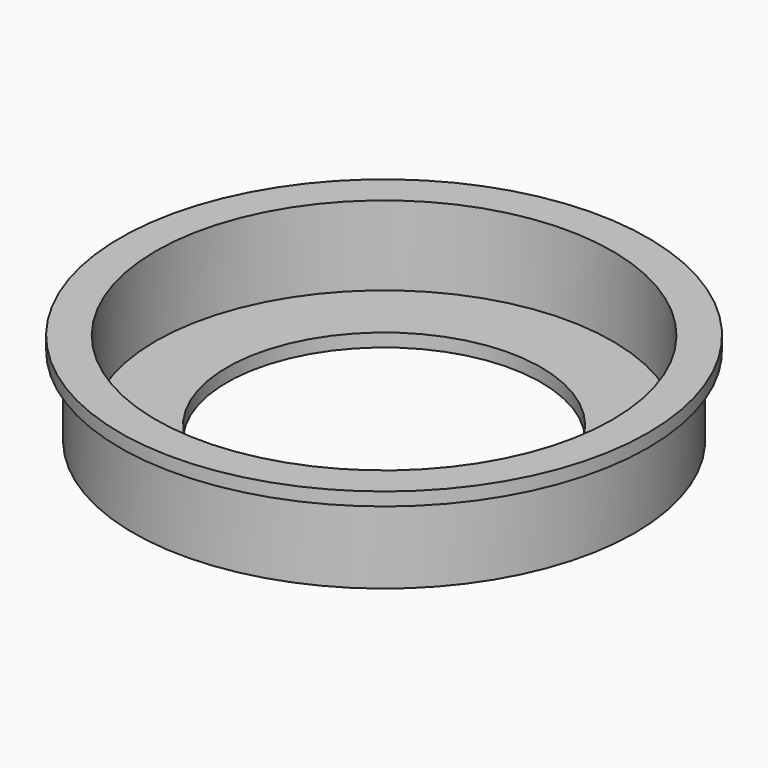
from build123d import *

# Parameters (mm, degrees)
F0_R     = 50.8
F0_R_2   = 30.226
F1_DEPTH = 2.54
F2_R     = 50.8
F2_R_2   = 43.942
F3_DEPTH = 15.24
F4_R     = 50.8
F4_R_2   = 48.26
F5_DEPTH = 15.24


with BuildPart() as f1:
    # F0 (on Top) → F1 (new body)
    with BuildSketch(Plane.XY):
        Circle(F0_R)
        Circle(F0_R_2, mode=Mode.SUBTRACT)
    extrude(amount=F1_DEPTH)

    # F2 (on face) → F3 (join)
    with BuildSketch(Plane.XY.offset(2.54)):
        Circle(F2_R)
        Circle(F2_R_2, mode=Mode.SUBTRACT)
    extrude(amount=F3_DEPTH)

    # F4 (on face) → F5 (cut)
    with BuildSketch(Plane(origin=(0, 0, 0), x_dir=(1, 0, 0), z_dir=(0, 0, -1))):
        Circle(F4_R)
        Circle(F4_R_2, mode=Mode.SUBTRACT)
    extrude(amount=-F5_DEPTH, mode=Mode.SUBTRACT)


solid = f1.part
